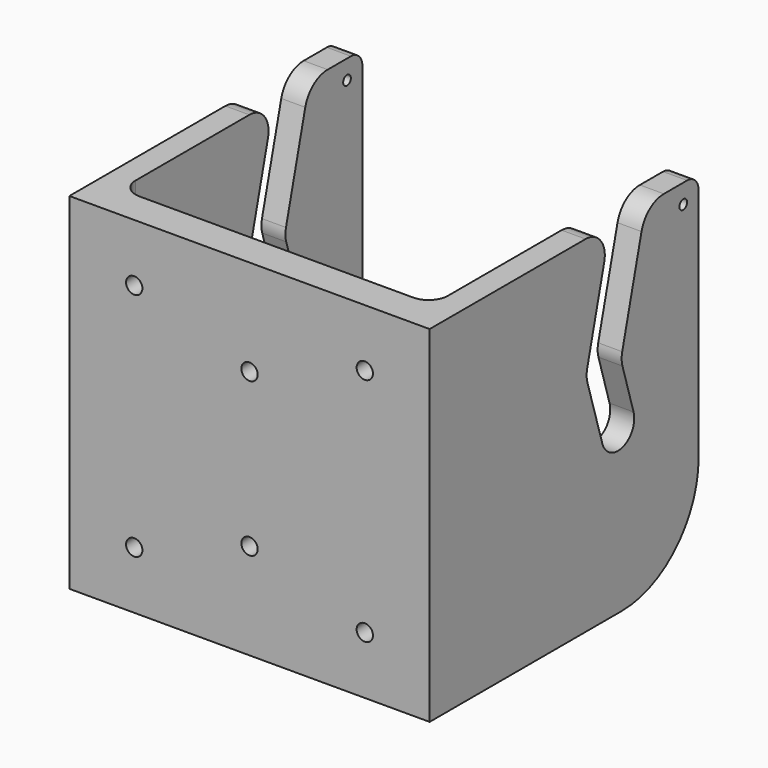
from build123d import *

# Parameters (mm, degrees)
F0_R     = 1
F1_DEPTH = 75
F2_W     = 65
F2_H     = 95
F3_DEPTH = 63
F4_R     = 1.7
F5_DEPTH = 7.001
F6_R     = 4


with BuildPart() as f1:
    # F0 (on Right) → F1 (new body)
    with BuildSketch(Plane.YZ):
        with BuildLine():
            Line((0, 72), (0, 0))
            Line((0, 0), (50, 0))
            ThreePointArc((50, 0), (64.142136, 5.857864), (70, 20))
            Line((70, 20), (70, 69))
            ThreePointArc((70, 69), (69.12132, 71.12132), (67, 72))
            Line((67, 72), (60.95857, 72))
            ThreePointArc((60.95857, 72), (57.269006, 70.731503), (55.139509, 67.462372))
            Line((55.139509, 67.462372), (50.118783, 47.483938))
            ThreePointArc((50.118783, 47.483938), (49.969332, 46.149869), (50.180201, 44.824121))
            Line((50.180201, 44.824121), (53.069629, 35.224997))
            ThreePointArc((53.069629, 35.224997), (50.230854, 29.932138), (44.933914, 32.763293))
            Line((44.933914, 32.763293), (41.069777, 45.467928))
            ThreePointArc((41.069777, 45.467928), (40.854911, 46.800259), (41.00419, 48.141522))
            Line((41.00419, 48.141522), (45.437209, 65.781356))
            ThreePointArc((45.437209, 65.781356), (44.530911, 70.074637), (40.587992, 72))
            Line((40.587992, 72), (0, 72))
        make_face()
        with Locations((66, 68)):
            Circle(F0_R, mode=Mode.SUBTRACT)
    extrude(amount=F1_DEPTH)

    # F2 (on face) → F3 (cut)
    with BuildSketch(Plane(origin=(0, 70, 0), x_dir=(-1, 0, 0), z_dir=(0, 1, 0))):
        with Locations((-37.5, 41.631669)):
            Rectangle(F2_W, F2_H)
    extrude(amount=-F3_DEPTH, mode=Mode.SUBTRACT)

    # F4 (on face) → F5 (cut, through all)
    with BuildSketch(Plane(origin=(0, 7, 0), x_dir=(-1, 0, 0), z_dir=(0, 1, 0))):
        with Locations((-61.5, 60)):
            Circle(F4_R)
        with Locations((-61.5, 12)):
            Circle(F4_R)
        with Locations((-13.5, 12)):
            Circle(F4_R)
        with Locations((-13.5, 60)):
            Circle(F4_R)
        with Locations((-37.5, 52)):
            Circle(F4_R)
        with Locations((-37.5, 20)):
            Circle(F4_R)
    extrude(amount=-F5_DEPTH, mode=Mode.SUBTRACT)

    # F6
    f6_edges = [f1.edges().sort_by_distance(p)[0] for p in [
        (70, 7, 36),
        (5, 7, 36),
    ]]
    fillet(f6_edges, radius=F6_R)


solid = f1.part
